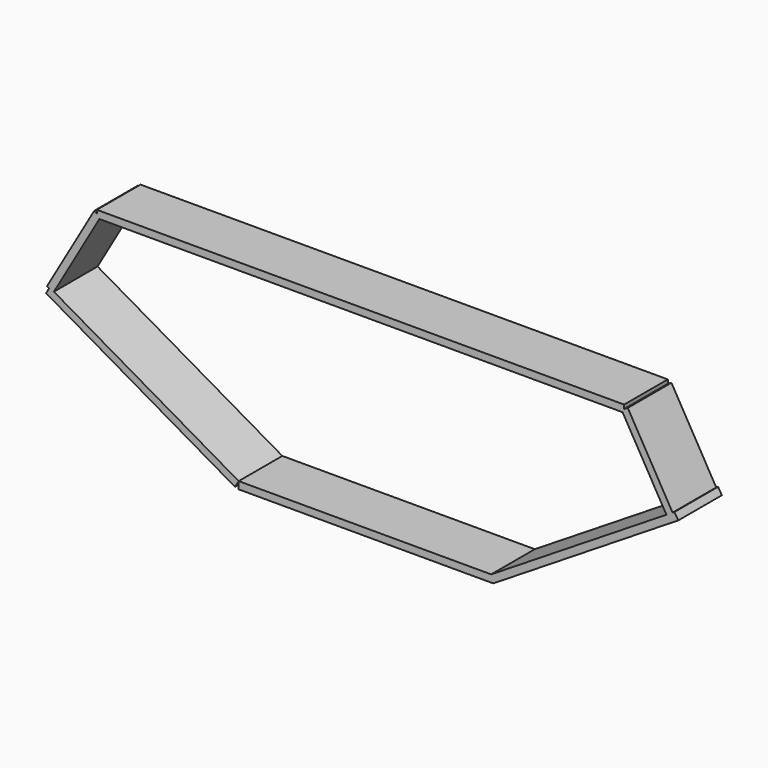
from build123d import *

# Parameters (mm, degrees)
BOX001002001_W                     = 70
BOX001002001_H                     = 15
BOX001002001_DEPTH                 = 2
BOX001002001002_W                  = 60
BOX001002001002_H                  = 15
BOX001002001002_DEPTH              = 2
BOX001002001002_PLACEMENT_ANGLE    = 209.99999
BOX001002001001_W                  = 60
BOX001002001001_H                  = 15
BOX001002001001_DEPTH              = 2
BOX001002001001_PITCH_ANGLE        = -31.999951
BOX001002001003_W                  = 26
BOX001002001003_H                  = 15
BOX001002001003_DEPTH              = 2
BOX001002001003_PLACEMENT_ANGLE    = 60.000023
BOX001002001003001_W               = 26
BOX001002001003001_H               = 15
BOX001002001003001_DEPTH           = 2
BOX001002001003001_PLACEMENT_ANGLE = 119.999977
BOX001002_W                        = 145
BOX001002_H                        = 15
BOX001002_DEPTH                    = 2


with BuildPart() as box001002001:
    # Box001002001 → Box001002001 (new body)
    with BuildSketch(Plane(origin=(49, -20, -23), x_dir=(1, 0, 0), z_dir=(0, 0, 1))):
        with Locations((35, 7.5)):
            Rectangle(BOX001002001_W, BOX001002001_H)
    extrude(amount=BOX001002001_DEPTH)


with BuildPart() as box001002001002:
    # Box001002001002 → Box001002001002 (new body)
    with BuildSketch(Plane.XY):
        with Locations((30, 7.5)):
            Rectangle(BOX001002001002_W, BOX001002001002_H)
    extrude(amount=BOX001002001002_DEPTH)


with BuildPart() as box001002001002_1:
    # Box001002001002 placement: moved
    add(box001002001002.part.moved(Location((49, -20, -21))).rotate(Axis((49, -20, -21), (0, 1, 0)), BOX001002001002_PLACEMENT_ANGLE))


with BuildPart() as box001002001001:
    # Box001002001001 → Box001002001001 (new body)
    with BuildSketch(Plane.XY):
        with Locations((30, 7.5)):
            Rectangle(BOX001002001001_W, BOX001002001001_H)
    extrude(amount=BOX001002001001_DEPTH)


with BuildPart() as box001002001001_1:
    # Box001002001001 pitch: moved
    add(box001002001001.part.rotate(Axis((0, 0, 0), (0, 1, 0)), BOX001002001001_PITCH_ANGLE))


with BuildPart() as box001002001001_2:
    # Box001002001001 placement: moved
    add(box001002001001_1.part.moved(Location((119, -20, -23))))


with BuildPart() as box001002001003:
    # Box001002001003 → Box001002001003 (new body)
    with BuildSketch(Plane.XY):
        with Locations((13, 7.5)):
            Rectangle(BOX001002001003_W, BOX001002001003_H)
    extrude(amount=BOX001002001003_DEPTH)


with BuildPart() as box001002001003_1:
    # Box001002001003 placement: moved
    add(box001002001003.part.moved(Location((-2, -20, 8))).rotate(Axis((-2, -20, 8), (0, -1, 0)), BOX001002001003_PLACEMENT_ANGLE))


with BuildPart() as box001002001003001:
    # Box001002001003001 → Box001002001003001 (new body)
    with BuildSketch(Plane.XY):
        with Locations((13, 7.5)):
            Rectangle(BOX001002001003001_W, BOX001002001003001_H)
    extrude(amount=BOX001002001003001_DEPTH)


with BuildPart() as box001002001003001_1:
    # Box001002001003001 placement: moved
    add(box001002001003001.part.moved(Location((169, -20, 9))).rotate(Axis((169, -20, 9), (0, -1, 0)), BOX001002001003001_PLACEMENT_ANGLE))


with BuildPart() as obj1:
    # Box001002 → Box001002 (new body)
    with BuildSketch(Plane(origin=(10, -20, 30), x_dir=(1, 0, 0), z_dir=(0, 0, 1))):
        with Locations((72.5, 7.5)):
            Rectangle(BOX001002_W, BOX001002_H)
    extrude(amount=BOX001002_DEPTH)

    # Fusion002001002001: union Box001002001, Box001002001002, Box001002001001, Box001002001003, Box001002001003001
    add(box001002001.part)
    add(box001002001002_1.part)
    add(box001002001001_2.part)
    add(box001002001003_1.part)
    add(box001002001003001_1.part)


with BuildPart() as obj1_1:
    # Fusion002001002001 placement: moved
    add(obj1.part.moved(Location((0, 85, 0))))


solid = obj1_1.part
